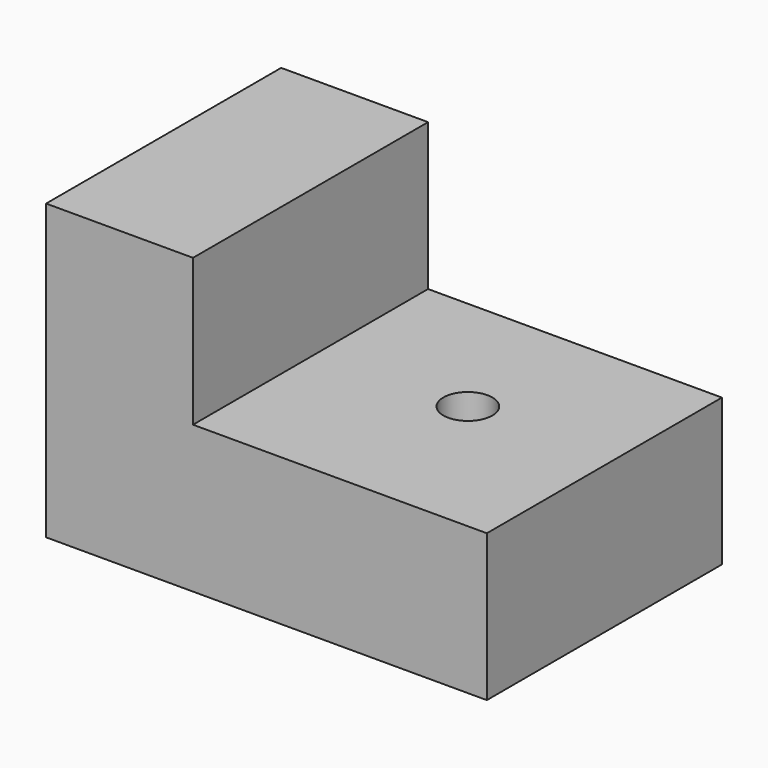
from build123d import *

# Parameters (mm, degrees)
F0_W     = 9
F0_H     = 6
F1_DEPTH = 6
F2_W     = 6
F2_H     = 3
F3_DEPTH = 6.001
F4_R     = 0.5
F5_DEPTH = 3.001


with BuildPart() as f1:
    # F0 (on Front) → F1 (new body)
    with BuildSketch(Plane.XZ):
        Rectangle(F0_W, F0_H)
    extrude(amount=F1_DEPTH)

    # F2 (on face) → F3 (cut, through all)
    with BuildSketch(Plane.XZ.offset(6)):
        with Locations((1.5, 1.5)):
            Rectangle(F2_W, F2_H)
    extrude(amount=-F3_DEPTH, mode=Mode.SUBTRACT)

    # F4 (on face) → F5 (cut, through all)
    with BuildSketch(Plane.XY):
        with Locations((1.528993, -2.770453)):
            Circle(F4_R)
    extrude(amount=-F5_DEPTH, mode=Mode.SUBTRACT)


solid = f1.part
